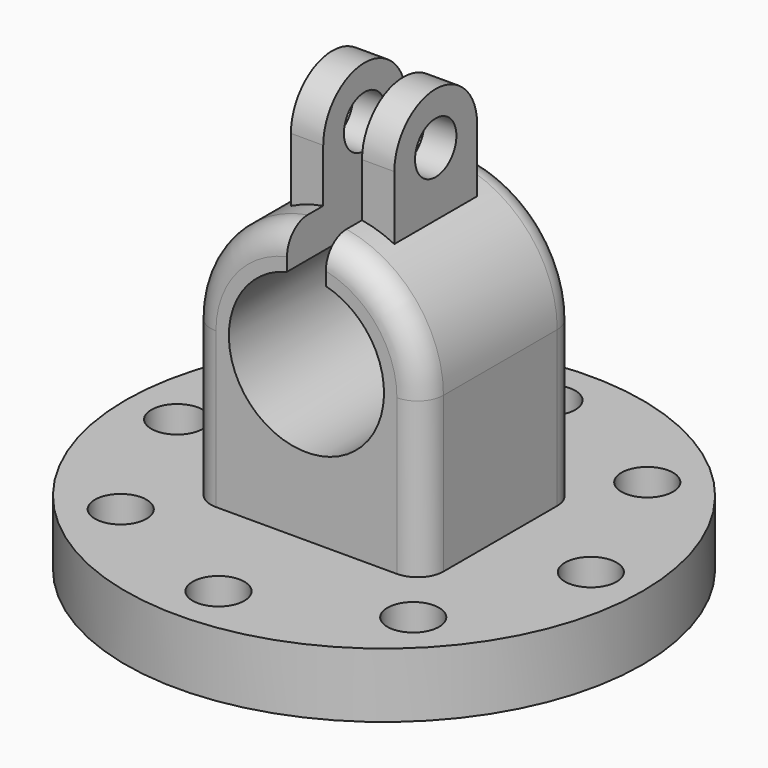
from build123d import *

# Parameters (mm, degrees)
SKETCH_R           = 20
PAD_DEPTH          = 5
PAD001_DEPTH       = 7.5
PAD002_DEPTH       = 4
SKETCH003_R        = 2
POCKET_DEPTH       = 24.001
POCKET001_DEPTH    = 27.501
SKETCH005_R        = 2
POCKET002_DEPTH    = 137.001
POLARPATTERN_COUNT = 8
FILLET_R           = 2


with BuildPart() as part:
    # Sketch → Pad (new body)
    with BuildSketch(Plane.XY):
        Circle(SKETCH_R)
    extrude(amount=PAD_DEPTH)

    # Sketch001 → Pad001 (join, symmetric)
    with BuildSketch(Plane.XZ):
        with BuildLine():
            ThreePointArc((9, 17), (0, 26), (-9, 17))
            Line((-9, 5), (-9, 17))
            Line((9, 5), (-9, 5))
            Line((9, 17), (9, 5))
        make_face()
    extrude(amount=PAD001_DEPTH, both=True)

    # Sketch002 → Pad002 (join, symmetric)
    with BuildSketch(Plane.YZ):
        with BuildLine():
            Line((-4, 20.02), (-4, 30))
            ThreePointArc((4, 30), (0, 34), (-4, 30))
            Line((4, 30), (4, 20.02))
            Line((4, 20.02), (-4, 20.02))
        make_face()
    extrude(amount=PAD002_DEPTH, both=True)

    # Sketch003 (on Face11 of Pad002) → Pocket (cut, through all)
    with BuildSketch(Plane.YZ.offset(4)):
        with Locations((0, 30)):
            Circle(SKETCH003_R)
    extrude(amount=-POCKET_DEPTH, mode=Mode.SUBTRACT)

    # Sketch004 (on Face5 of Pocket) → Pocket001 (cut, through all)
    with BuildSketch(Plane.XZ.offset(7.5)):
        with BuildLine():
            ThreePointArc((-1.5, 22.809475), (0, 11), (1.5, 22.809475))
            Line((1.5, 42.36), (1.5, 22.809475))
            Line((-1.5, 42.36), (1.5, 42.36))
            Line((-1.5, 22.809475), (-1.5, 42.36))
        make_face()
    extrude(amount=-POCKET001_DEPTH, mode=Mode.SUBTRACT)

    # Sketch005 (on Face3 of Pocket001) → Pocket002 (cut, through all)
    with BuildSketch(Plane.XY.offset(5)):
        with Locations((16, 0)):
            Circle(SKETCH005_R)
    pocket002 = extrude(amount=-POCKET002_DEPTH, mode=Mode.SUBTRACT)

    # PolarPattern: Pocket002 ×8 about axis
    polarpattern_axis = Axis((0, 0, 5), (0, 0, 1))
    for i in range(1, POLARPATTERN_COUNT):
        add(pocket002.rotate(polarpattern_axis, i * 360 / POLARPATTERN_COUNT), mode=Mode.SUBTRACT)

    # Fillet
    fillet_edges = [part.edges().sort_by_distance(p)[0] for p in [
        (-6.873864, -7.5, 22.809475),
        (6.873864, -7.5, 22.809475),
        (-6.873864, 7.5, 22.809475),
        (6.873864, 7.5, 22.809475),
    ]]
    fillet(fillet_edges, radius=FILLET_R)


solid = part.part
